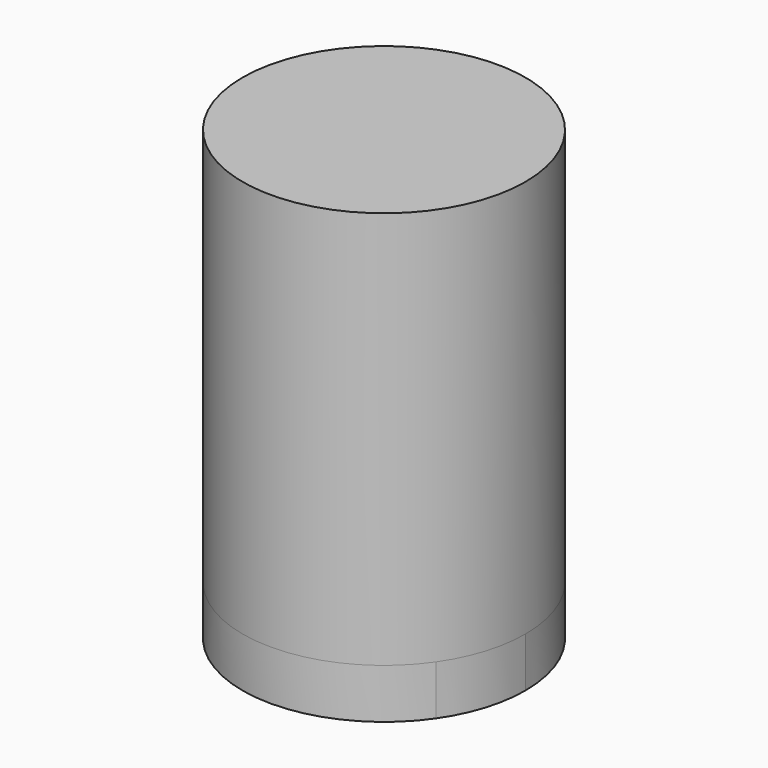
from build123d import *

# Parameters (mm, degrees)
F1_DEPTH  = 25.4
F1_FACE_R = 72.184944
F2_DEPTH  = 203.2


with BuildPart() as f1:
    # F0 (on Top) → F1 (new body)
    with BuildSketch(Plane.XY):
        with BuildLine():
            ThreePointArc((59.356837, -41.078365), (68.903324, -21.51739), (72.184944, 0))
            ThreePointArc((72.184944, 0), (-68.903324, 21.51739), (59.356837, -41.078365))
        make_face()
    extrude(amount=F1_DEPTH)

    # F1_face (on face) → F2 (join)
    with BuildSketch(Plane.XY.offset(25.4)):
        Circle(F1_FACE_R)
    extrude(amount=F2_DEPTH)


solid = f1.part
